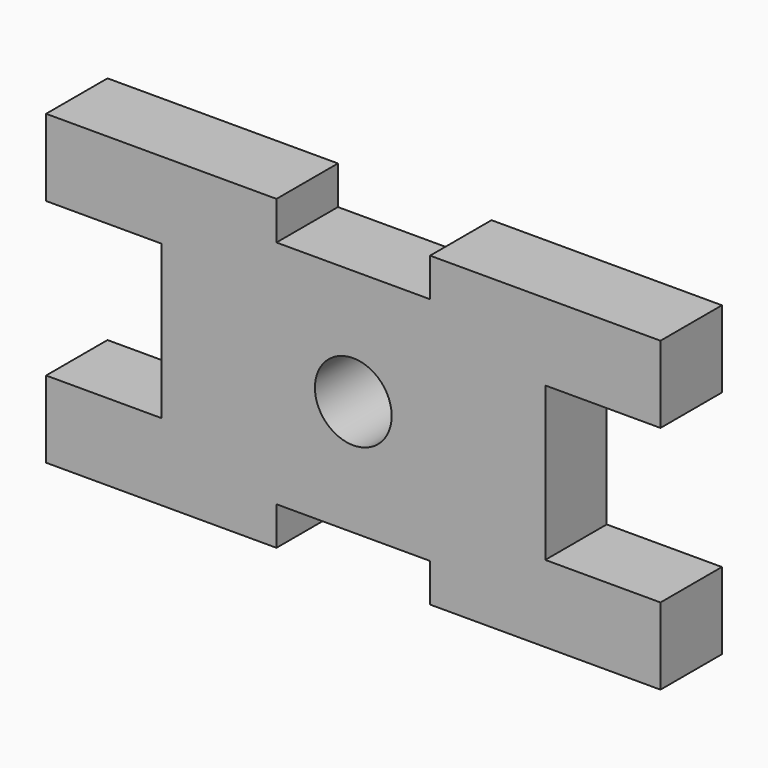
from build123d import *

# Parameters (mm, degrees)
F0_R     = 5
F1_DEPTH = 10


with BuildPart() as f1:
    # F0 (on Front) → F1 (new body)
    with BuildSketch(Plane.XZ):
        Polygon((10, 20), (10, 15), (0, 15), (-10, 15), (-10, 20), (-40, 20), (-40, 10), (-25, 10), (-25, 0), (-25, -10), (-40, -10), (-40, -20), (-10, -20), (-10, -15), (0, -15), (10, -15), (10, -20), (40, -20), (40, -10), (25, -10), (25, 0), (25, 10), (40, 10), (40, 20), align=None)
        Circle(F0_R, mode=Mode.SUBTRACT)
    extrude(amount=F1_DEPTH)


solid = f1.part
